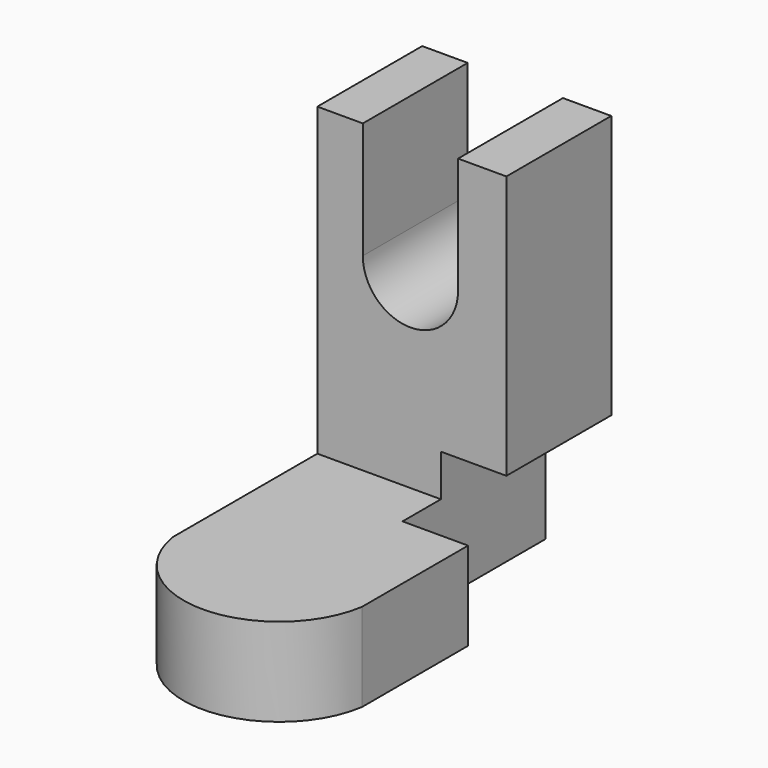
from build123d import *

# Parameters (mm, degrees)
F1_DEPTH = 25.4
F2_W     = 36.63072
F2_H     = 17.09543
F3_DEPTH = 50.8
F5_DEPTH = 17.09643
F6_W     = 34.679536
F6_H     = 25.22513
F7_DEPTH = 12.7


with BuildPart() as f1:
    # F0 (on Front) → F1 (new body)
    with BuildSketch(Plane.XZ):
        with BuildLine():
            Line((-9.501953, 38.145531), (-18.31536, 38.145531))
            Line((-18.31536, 38.145531), (-18.31536, -38.145531))
            Line((-18.31536, -38.145531), (18.31536, -38.145531))
            Line((18.31536, -38.145531), (18.31536, 38.145531))
            Line((18.31536, 38.145531), (8.951116, 38.145531))
            Line((8.951116, 38.145531), (8.951116, 15.561176))
            ThreePointArc((8.951116, 15.561176), (-0.275418, 6.334641), (-9.501953, 15.561176))
            Line((-9.501953, 15.561176), (-9.501953, 38.145531))
        make_face()
    extrude(amount=F1_DEPTH)

    # F2 (on face) → F3 (join)
    with BuildSketch(Plane.XZ.offset(25.4)):
        with Locations((0, -29.597816)):
            Rectangle(F2_W, F2_H)
    extrude(amount=F3_DEPTH)

    # F4 (on face) → F5 (cut, through all)
    with BuildSketch(Plane.XY.offset(-21.050101)):
        with BuildLine():
            ThreePointArc((18.31536, -60.358326), (0, -76.070081), (-18.31536, -60.358326))
            Line((-18.31536, -60.358326), (-18.31536, -76.2))
            Line((-18.31536, -76.2), (18.31536, -76.2))
            Line((18.31536, -76.2), (18.31536, -60.358326))
        make_face()
    extrude(amount=-F5_DEPTH, mode=Mode.SUBTRACT)

    # F6 (on face) → F7 (cut)
    with BuildSketch(Plane.YZ.offset(18.31536)):
        with Locations((-17.339768, -25.532966)):
            Rectangle(F6_W, F6_H)
    extrude(amount=-F7_DEPTH, mode=Mode.SUBTRACT)


solid = f1.part
